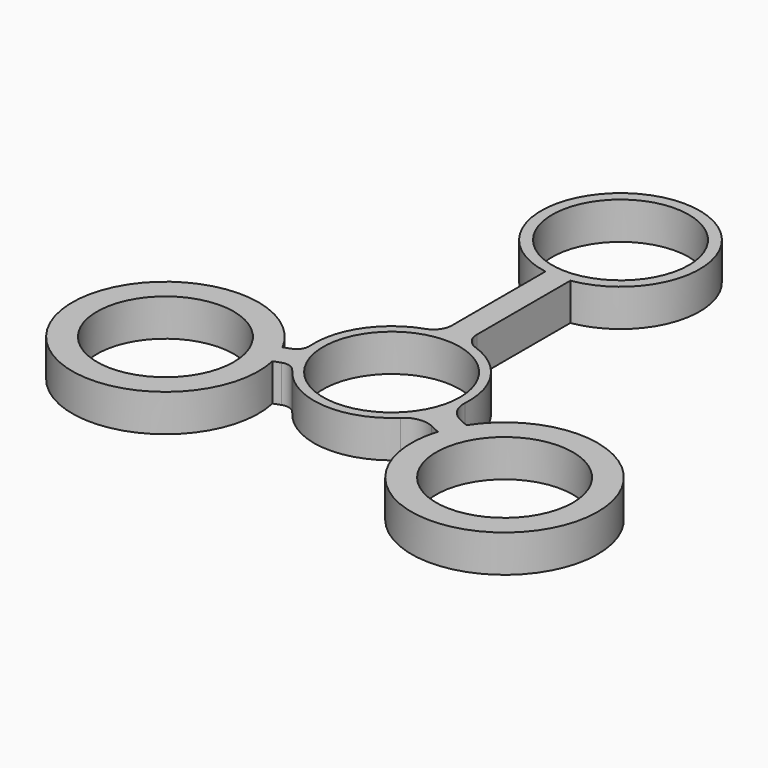
from build123d import *

# Parameters (mm, degrees)
F0_R     = 11
F1_DEPTH = 3


with BuildPart() as f1:
    # F0 (on Top) → F1 (new body, symmetric)
    with BuildSketch(Plane.XY):
        with BuildLine():
            ThreePointArc((-2, 14.671401), (-2.560407, 12.925438), (-4.032258, 11.831775))
            ThreePointArc((-4.032258, 11.831775), (-10.411858, 6.916879), (-12.469754, -0.869041))
            ThreePointArc((-12.469754, -0.869041), (-12.787701, -2.097561), (-13.780875, -2.887473))
            Line((-13.780875, -2.887473), (-14.905284, -3.296724))
            ThreePointArc((-14.905284, -3.296724), (-42.286168, -15.390906), (-13.537203, -7.055495))
            Line((-13.537203, -7.055495), (-12.412794, -6.646243))
            ThreePointArc((-12.412794, -6.646243), (-11.144234, -6.61295), (-10.110995, -7.34968))
            ThreePointArc((-10.110995, -7.34968), (-1.123162, -12.449438), (8.632293, -9.040659))
            ThreePointArc((8.632293, -9.040659), (10.745583, -7.986678), (13.0851, -8.308438))
            Line((13.0851, -8.308438), (14.683379, -9.053728))
            ThreePointArc((14.683379, -9.053728), (42.596466, -19.863058), (16.373852, -5.428497))
            Line((16.373852, -5.428497), (14.775573, -4.683207))
            ThreePointArc((14.775573, -4.683207), (13.025278, -3.097857), (12.474278, -0.801497))
            ThreePointArc((12.474278, -0.801497), (10.39309, 6.945047), (4.032258, 11.831775))
            ThreePointArc((4.032258, 11.831775), (2.560407, 12.925438), (2, 14.671401))
            Line((2, 14.671401), (2, 33.45784))
            ThreePointArc((2, 33.45784), (0, 58.8), (-2, 33.45784))
            Line((-2, 33.45784), (-2, 14.671401))
        make_face()
        with Locations((-28.190779, -10.260604)):
            Circle(F0_R, mode=Mode.SUBTRACT)
        Circle(F0_R, mode=Mode.SUBTRACT)
        with Locations((29.001849, -13.523784)):
            Circle(F0_R, mode=Mode.SUBTRACT)
        with Locations((0, 46.05)):
            Circle(F0_R, mode=Mode.SUBTRACT)
    extrude(amount=F1_DEPTH, both=True)


solid = f1.part
